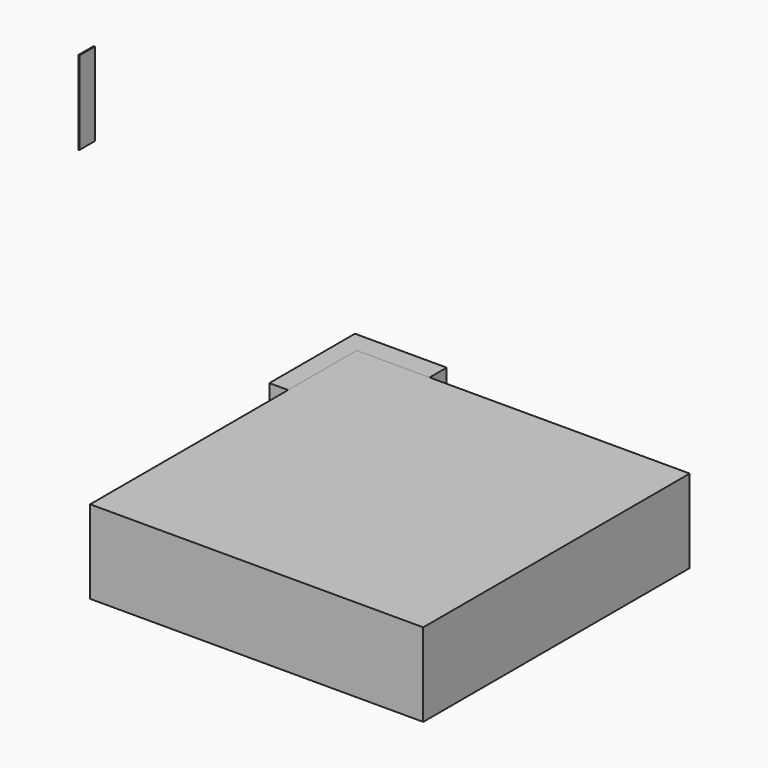
from build123d import *

# Parameters (mm, degrees)
F2_W     = 0.348
F2_H     = 5.8009624481
F3_DEPTH = 25
F2_W_2   = 5.63653633
F2_H_2   = 16.0566493869
F2_W_3   = 13.7717649341
F2_H_3   = 6.4069338143
F0_W     = 100
F0_H     = 100
F1_W     = 100
F1_H     = 100


with BuildPart() as f3:
    # F2 (on face) → F3 (new body)
    with BuildSketch(Plane.XY):
        with Locations((-194.4951125631, 129.2866021395)):
            Rectangle(F2_W, F2_H)
    extrude(amount=F3_DEPTH)


with BuildPart() as f3b:
    # F2 (on face) → F3, piece 2 (new body)
    with BuildSketch(Plane.XY):
        Polygon((-28.0930064619, 24.2936350405), (-50, 24.2936350405), (-50, -50), (50, -50), (50, 50), (-28.0930064619, 50), align=None)
        with Locations((-52.818268165, 32.321959734)):
            Rectangle(F2_W_2, F2_H_2)
        with Locations((-34.9788889289, 53.2034669071)):
            Rectangle(F2_W_3, F2_H_3)
        Polygon((-55.63653633, 40.3502844274), (-50, 40.3502844274), (-50, 50), (-41.8647713959, 50), (-41.8647713959, 56.4069338143), (-55.63653633, 56.4069338143), align=None)
        Polygon((-41.8647713959, 50), (-41.8647713959, 40.3502844274), (-50, 40.3502844274), (-50, 24.2936350405), (-28.0930064619, 24.2936350405), (-28.0930064619, 50), align=None)
    extrude(amount=F3_DEPTH)


with BuildPart() as f3c:
    # F0 (on Top) → F3, piece 3 (new body)
    with BuildSketch(Plane.XY):
        Rectangle(F0_W, F0_H)
    extrude(amount=F3_DEPTH)


with BuildPart() as f3d:
    # F1 (on face) → F3, piece 4 (new body)
    with BuildSketch(Plane.XY):
        Rectangle(F1_W, F1_H)
    extrude(amount=F3_DEPTH)


solid = Compound([f3.part, f3b.part, f3c.part, f3d.part])
